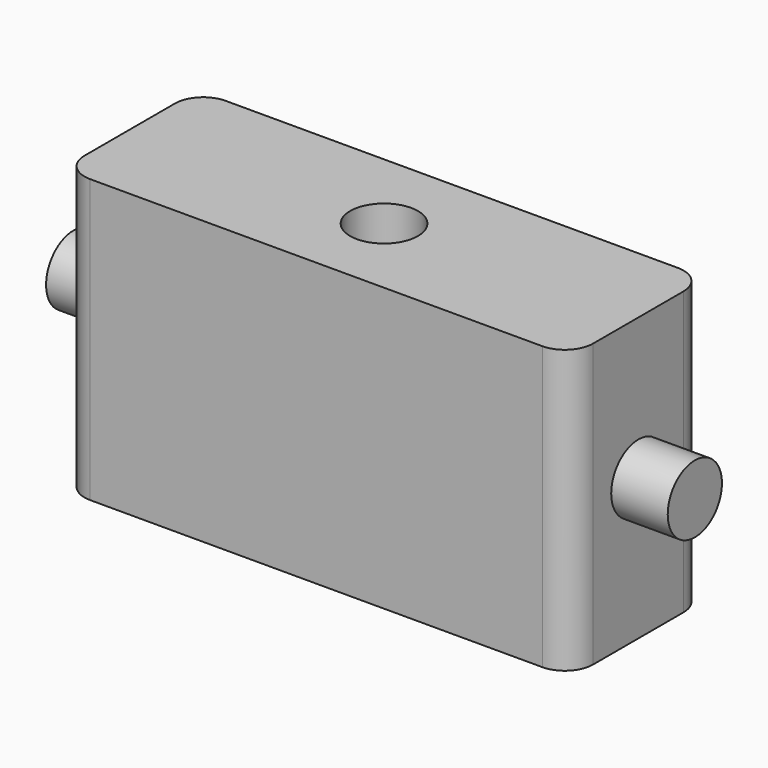
from build123d import *

# Parameters (mm, degrees)
F1_DEPTH = 50
F2_R     = 6
F3_DEPTH = 10
F4_DEPTH = 100
F5_R     = 6
F6_DEPTH = 50.001


with BuildPart() as f1:
    # F0 (on Top) → F1 (new body)
    with BuildSketch(Plane.XY):
        with BuildLine():
            ThreePointArc((45, 10), (43.535534, 13.535534), (40, 15))
            Line((40, 15), (-40, 15))
            ThreePointArc((-40, 15), (-43.535534, 13.535534), (-45, 10))
            Line((-45, 10), (-45, -10))
            ThreePointArc((-45, -10), (-43.535534, -13.535534), (-40, -15))
            Line((-40, -15), (40, -15))
            ThreePointArc((40, -15), (43.535534, -13.535534), (45, -10))
            Line((45, -10), (45, 10))
        make_face()
    extrude(amount=F1_DEPTH)

    # F2 (on face) → F3 (join)
    with BuildSketch(Plane(origin=(-45, 0, 0), x_dir=(0, -1, 0), z_dir=(-1, 0, 0))):
        with Locations((0, 25)):
            Circle(F2_R)
    extrude(amount=F3_DEPTH)

    # F2 (on face) → F4 (join)
    with BuildSketch(Plane(origin=(-45, 0, 0), x_dir=(0, -1, 0), z_dir=(-1, 0, 0))):
        with Locations((0, 25)):
            Circle(F2_R)
    extrude(amount=-F4_DEPTH)

    # F5 (on face) → F6 (cut, through all)
    with BuildSketch(Plane.XY.offset(50)):
        Circle(F5_R)
    extrude(amount=-F6_DEPTH, mode=Mode.SUBTRACT)


solid = f1.part
